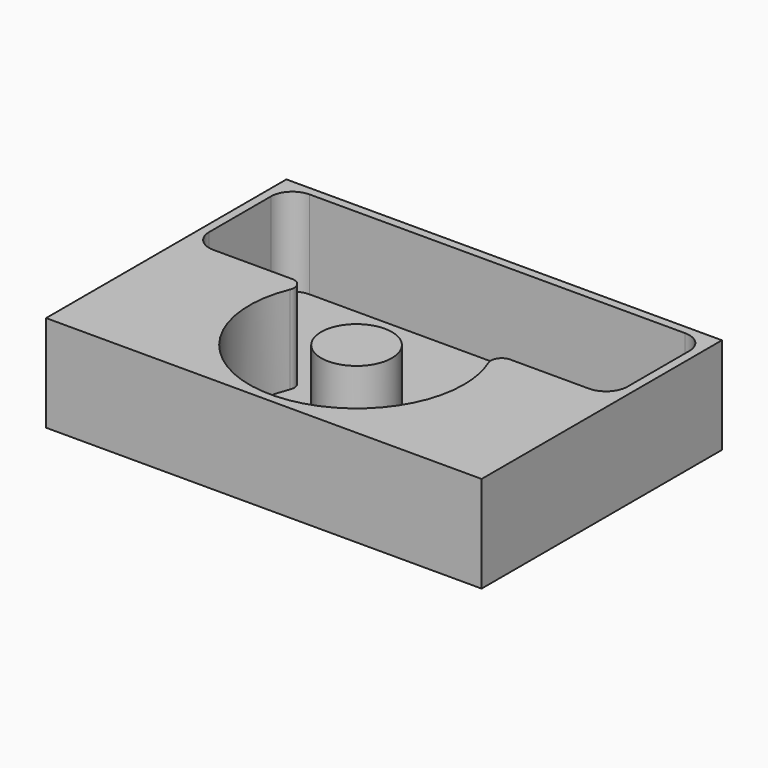
from build123d import *

# Parameters (mm, degrees)
F0_W     = 203
F0_H     = 140
F1_DEPTH = 45
F2_W     = 195
F2_H     = 56
F3_DEPTH = 41
F4_R     = 16.5
F5_DEPTH = 41
F6_R     = 10
F7_R     = 5


with BuildPart() as f1:
    # F0 (on Top) → F1 (new body)
    with BuildSketch(Plane.XY):
        Rectangle(F0_W, F0_H)
    extrude(amount=F1_DEPTH)

    # F2 (on face) → F3 (cut)
    with BuildSketch(Plane.XY.offset(45)):
        with Locations((0, 38)):
            Rectangle(F2_W, F2_H)
    extrude(amount=-F3_DEPTH, mode=Mode.SUBTRACT)

    # F4 (on face) → F5 (cut)
    with BuildSketch(Plane.XY.offset(45)):
        with BuildLine():
            ThreePointArc((-42.7083130081, 10), (-13.5015619392, -64.1425780905), (50, -16))
            ThreePointArc((50, -16), (48.1425780905, -2.4984380608), (42.7083130081, 10))
            Line((42.7083130081, 10), (-42.7083130081, 10))
        make_face()
        with Locations((0, -16)):
            Circle(F4_R, mode=Mode.SUBTRACT)
    extrude(amount=-F5_DEPTH, mode=Mode.SUBTRACT)

    # F6
    f6_edges = [f1.edges().sort_by_distance(p)[0] for p in [
        (97.5, 66, 24.5),
        (-97.5, 66, 24.5),
        (97.5, 10, 24.5),
        (-97.5, 10, 24.5),
    ]]
    fillet(f6_edges, radius=F6_R)

    # F7
    f7_edges = [f1.edges().sort_by_distance(p)[0] for p in [
        (42.708313, 10, 24.5),
        (-42.708313, 10, 24.5),
    ]]
    fillet(f7_edges, radius=F7_R)


solid = f1.part
